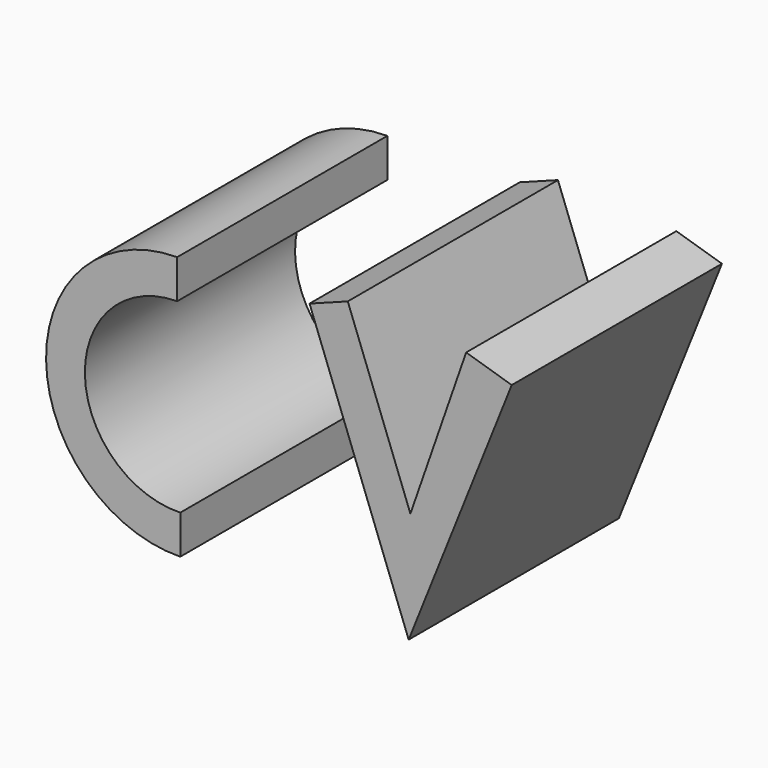
from build123d import *

# Parameters (mm, degrees)
F1_DEPTH = 25.4


with BuildPart() as f1:
    # F0 (on Front) → F1 (new body)
    with BuildSketch(Plane.XZ):
        with BuildLine():
            Line((-61.955607, 43.851205), (-61.955607, 47.602861))
            ThreePointArc((-61.955607, 47.602861), (-74.627534, 34.751725), (-61.653292, 22.205871))
            Line((-61.653292, 22.205871), (-61.653292, 25.958765))
            ThreePointArc((-61.653292, 25.958765), (-70.875513, 34.751718), (-61.955607, 43.851205))
        make_face()
        Polygon((-45.460564, 49.203566), (-49.155846, 47.814362), (-39.573807, 22.326143), (-29.608492, 47.239438), (-34.016225, 48.58093), (-39.405879, 33.098108), align=None)
    extrude(amount=F1_DEPTH)


solid = f1.part
